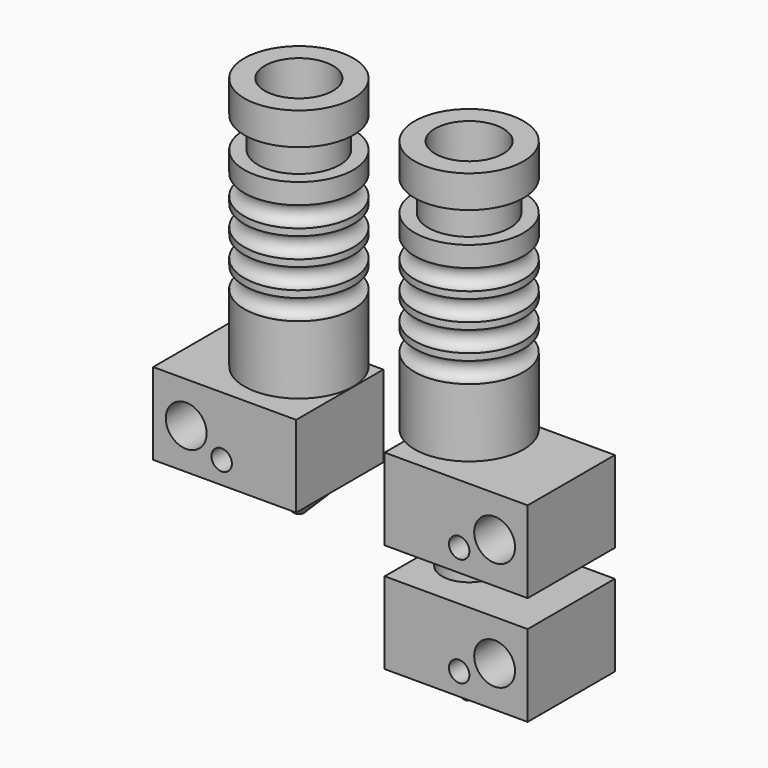
from build123d import *

# Parameters (mm, degrees)
BOX_W                    = 21
BOX_H                    = 16
BOX_DEPTH                = 12
SKETCH_R                 = 3.75
PAD_DEPTH                = 5
CHAMFER_SIZE             = 3
SKETCH002_R              = 4
PAD001_DEPTH             = 10
SKETCH003_R              = 3
SKETCH003_R_2            = 1.5
POCKET_DEPTH             = 16
SKETCH004_R              = 2.75
POCKET001_DEPTH          = 22
SKETCH005_R              = 0.2
POCKET002_DEPTH          = 10
CLONE002_PLACEMENT_ANGLE = 180


with BuildPart() as cuerpo:
    # Sketch001 → Revolution (revolve)
    with BuildSketch(Plane.XZ):
        with BuildLine():
            Line((5, 51.954893), (8, 51.954893))
            Line((8, 51.954893), (8, 47.204893))
            Line((8, 47.204893), (6, 47.204893))
            Line((6, 47.204893), (6, 42.704893))
            Line((6, 42.704893), (8, 42.704893))
            Line((8, 42.704893), (8, 39.704893))
            ThreePointArc((8, 39.704893), (6.5, 38.204893), (8, 36.704893))
            Line((8, 36.704893), (8, 35.704893))
            ThreePointArc((8, 35.704893), (6.5, 34.204893), (8, 32.704893))
            Line((8, 32.704893), (8, 31.704893))
            ThreePointArc((8, 31.704893), (6.5, 30.204893), (8, 28.704893))
            Line((8, 28.704893), (8, 27.704893))
            ThreePointArc((8, 27.704893), (6.5, 26.204893), (8, 24.704893))
            Line((8, 24.704893), (8, 14.704893))
            Line((8, 14.704893), (4, 13.954893))
            Line((4, 13.954893), (4, 23.954893))
            Line((4, 23.954893), (2, 23.954893))
            Line((2, 23.954893), (2, 41.954893))
            Line((2, 41.954893), (5, 41.954893))
            Line((5, 41.954893), (5, 51.954893))
        make_face()
    revolve(axis=Axis((0, 0, 0), (0, 0, 1)))


with BuildPart() as obj1:
    # Box → Box (new body)
    with BuildSketch(Plane(origin=(-6, -8, -15), x_dir=(1, 0, 0), z_dir=(0, 0, 1))):
        with Locations((10.5, 8)):
            Rectangle(BOX_W, BOX_H)
    extrude(amount=BOX_DEPTH)

    # Sketch → Pad (new body)
    with BuildSketch(Plane(origin=(-6, -8, -15), x_dir=(1, 0, 0), z_dir=(0, 0, -1))):
        with Locations((6, -8)):
            Circle(SKETCH_R)
    extrude(amount=PAD_DEPTH)

    # Chamfer
    chamfer_edges = [obj1.edges().sort_by_distance(p)[0] for p in [
        (-3.75, 0, -20),
    ]]
    chamfer(chamfer_edges, length=CHAMFER_SIZE)

    # Sketch002 → Pad001 (new body)
    with BuildSketch(Plane(origin=(-6, -8, -3), x_dir=(1, 0, 0), z_dir=(0, 0, 1))):
        with Locations((6, 8)):
            Circle(SKETCH002_R)
    extrude(amount=PAD001_DEPTH)

    # Sketch003 → Pocket (cut)
    with BuildSketch(Plane(origin=(-6, 8, -15), x_dir=(-1, 0, 0), z_dir=(0, 1, 0))):
        with Locations((-16.145511, 5.977799)):
            Circle(SKETCH003_R)
        with Locations((-10.941034, 3.262298)):
            Circle(SKETCH003_R_2)
    extrude(amount=-POCKET_DEPTH, mode=Mode.SUBTRACT)

    # Sketch004 → Pocket001 (cut)
    with BuildSketch(Plane(origin=(-6, -8, 7), x_dir=(1, 0, 0), z_dir=(0, 0, 1))):
        with Locations((6, 8)):
            Circle(SKETCH004_R)
    extrude(amount=-POCKET001_DEPTH, mode=Mode.SUBTRACT)

    # Sketch005 → Pocket002 (cut)
    with BuildSketch(Plane(origin=(-6, -8, -20), x_dir=(1, 0, 0), z_dir=(0, 0, -1))):
        with Locations((6, -8)):
            Circle(SKETCH005_R)
    extrude(amount=-POCKET002_DEPTH, mode=Mode.SUBTRACT)


with BuildPart() as clone_of_cuerpo:
    # Clone base: copy of Cuerpo
    add(cuerpo.part)


with BuildPart() as obj2:
    # Clone001 base: copy of obj1
    add(obj1.part)


with BuildPart() as obj2_1:
    # Clone001 placement: moved
    add(obj2.part.moved(Location((0, 0, 16))))

    # Fusion: union Clone of Cuerpo
    add(clone_of_cuerpo.part)


with BuildPart() as obj3:
    # Clone002 base: copy of obj2
    add(obj2_1.part)


with BuildPart() as obj3_1:
    # Clone002 placement: moved
    add(obj3.part.moved(Location((-25, 0, 0))).rotate(Axis((-25, 0, 0), (0, 0, 1)), CLONE002_PLACEMENT_ANGLE))


solid = Compound([cuerpo.part, obj1.part, obj2_1.part, obj3_1.part])
